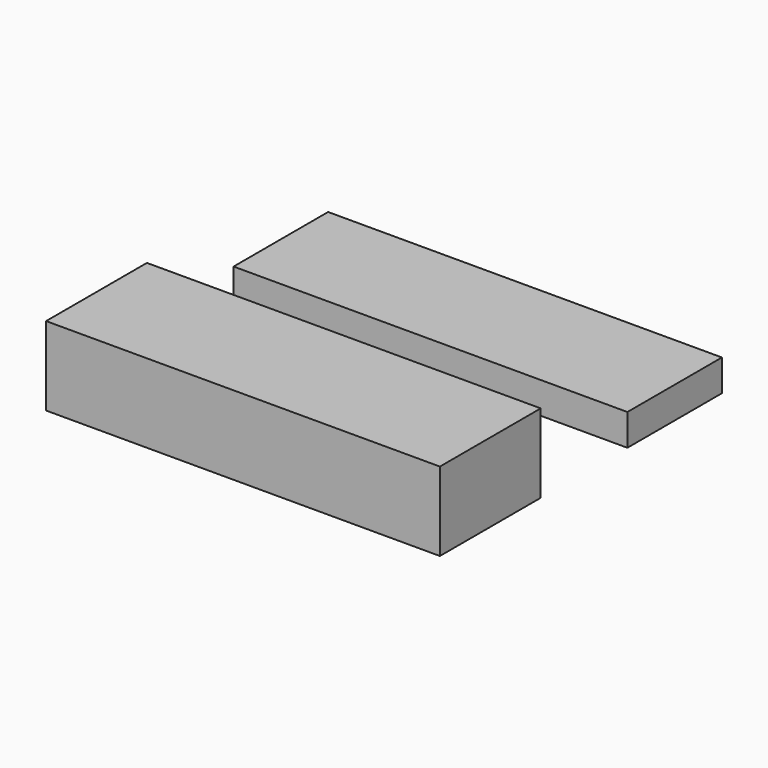
from build123d import *

# Parameters (mm, degrees)
F0_W     = 50
F0_H     = 15
F1_DEPTH = 4
F2_W     = 50
F2_H     = 16
F3_DEPTH = 10


with BuildPart() as f1:
    # F0 (on Top) → F1 (new body)
    with BuildSketch(Plane.XY):
        Rectangle(F0_W, F0_H)
        Rectangle(F0_W, F0_H)
    extrude(amount=F1_DEPTH)


with BuildPart() as f3:
    # F2 (on Top) → F3 (new body)
    with BuildSketch(Plane.XY):
        with Locations((0, -29.257138)):
            Rectangle(F2_W, F2_H)
    extrude(amount=F3_DEPTH)


solid = Compound([f1.part, f3.part])
